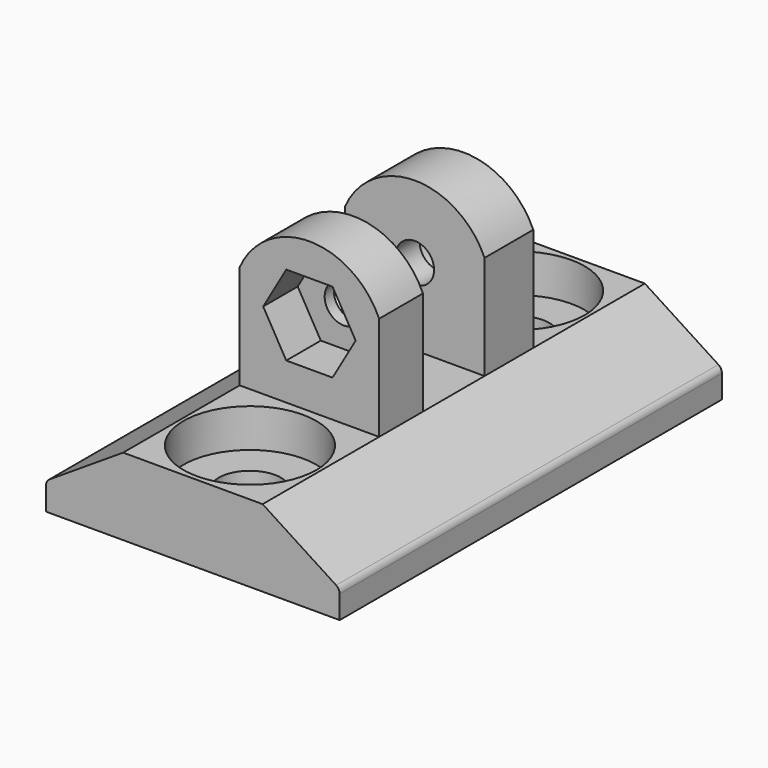
from build123d import *

# Parameters (mm, degrees)
PAD_DEPTH         = 62
SKETCH003_R       = 4.05
POCKET_DEPTH      = 0.001
POCKET_DEPTH_BACK = -10.001
SKETCH_R          = 8.625
POCKET001_DEPTH   = 5
PAD001_DEPTH      = 25
BOX_W             = 20
BOX_H             = 20
BOX_DEPTH         = 10
SKETCH005_R       = 2.5
POCKET002_DEPTH   = 62.001
CYLINDER_R        = 4
CYLINDER_DEPTH    = 4
POCKET003_DEPTH   = 6


with BuildPart() as part:
    # Sketch002 (on Sketch) → Pad (new body)
    with BuildSketch(Plane.XZ):
        with BuildLine():
            Line((-38.1, 3), (-38.1, 0))
            Line((-38.1, 0), (0, 0))
            Line((0, 3), (0, 0))
            ThreePointArc((0, 3), (-0.121836, 3.47836), (-0.457656, 3.840157))
            Line((-10, 10), (-0.457656, 3.840157))
            Line((-28.1, 10), (-10, 10))
            Line((-28.1, 10), (-37.642344, 3.840157))
            ThreePointArc((-37.642344, 3.840157), (-37.978164, 3.47836), (-38.1, 3))
        make_face()
    extrude(amount=PAD_DEPTH)

    # Sketch003 → Pocket (cut, two sides)
    with BuildSketch(Plane.XY) as pocket_sk:
        with Locations((-19.05, -9.25)):
            Circle(SKETCH003_R)
        with Locations((-19.05, -52.75)):
            Circle(SKETCH003_R)
    extrude(amount=-POCKET_DEPTH, mode=Mode.SUBTRACT)
    extrude(pocket_sk.sketch, amount=-POCKET_DEPTH_BACK, mode=Mode.SUBTRACT)

    # Sketch → Pocket001 (cut)
    with BuildSketch(Plane.XY.offset(5)):
        with Locations((-19.05, -9.25)):
            Circle(SKETCH_R)
        with Locations((-19.05, -52.75)):
            Circle(SKETCH_R)
    extrude(amount=POCKET001_DEPTH, mode=Mode.SUBTRACT)

    # Sketch004 → Pad001 (join)
    with BuildSketch(Plane.XZ.offset(18.1)):
        with BuildLine():
            Line((-28.1, 10), (-10, 10))
            Line((-10, 23.5), (-10, 10))
            ThreePointArc((-10, 23.5), (-19.05, 29.402761), (-28.1, 23.5))
            Line((-28.1, 10), (-28.1, 23.5))
        make_face()
    extrude(amount=PAD001_DEPTH)

    # Box → Box (cut)
    with BuildSketch(Plane(origin=(-29, -26, 10), x_dir=(1, 0, 0), z_dir=(0, -1, 0))):
        with Locations((10, 10)):
            Rectangle(BOX_W, BOX_H)
    extrude(amount=BOX_DEPTH, mode=Mode.SUBTRACT)

    # Sketch005 → Pocket002 (cut, through all)
    with BuildSketch(Plane.XZ):
        with Locations((-19.05, 20)):
            Circle(SKETCH005_R)
    extrude(amount=POCKET002_DEPTH, mode=Mode.SUBTRACT)

    # Cylinder → Cylinder (cut)
    with BuildSketch(Plane(origin=(-19.05, -22.1, 20), x_dir=(0, 0, -1), z_dir=(0, 1, 0))):
        Circle(CYLINDER_R)
    extrude(amount=CYLINDER_DEPTH, mode=Mode.SUBTRACT)

    # Sketch006 → Pocket003 (cut)
    with BuildSketch(Plane.XZ.offset(37.5)):
        Polygon((-16.05, 25.196152), (-22.05, 25.196152), (-25.05, 20), (-22.05, 14.803848), (-16.05, 14.803848), (-13.05, 20), align=None)
    extrude(amount=POCKET003_DEPTH, mode=Mode.SUBTRACT)


solid = part.part
